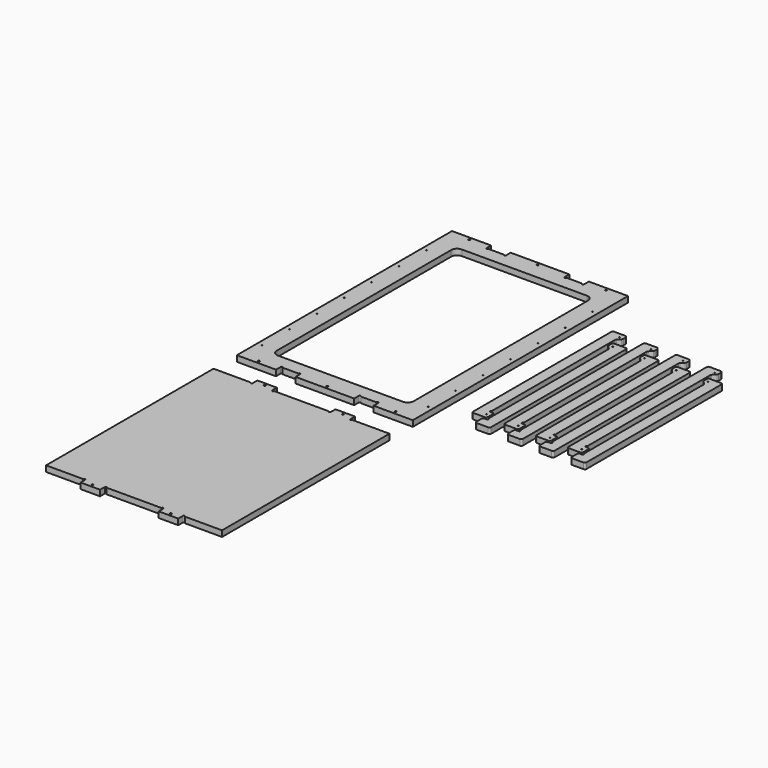
from build123d import *

# Parameters (mm, degrees)
F0_R     = 1.75
F0_R_2   = 1
F1_DEPTH = 12
F2_R     = 1.75
F3_DEPTH = 12


with BuildPart() as f1:
    # F0 (on Top) → F1 (new body)
    with BuildSketch(Plane.XY):
        with BuildLine():
            Line((0, 550), (0, 0))
            Line((0, 0), (80, 0))
            Line((80, 0), (80, 12))
            ThreePointArc((80, 12), (82, 14), (84, 12))
            Line((84, 12), (116, 12))
            ThreePointArc((116, 12), (118, 14), (120, 12))
            Line((120, 12), (120, 0))
            Line((120, 0), (239.85, 0))
            Line((239.85, 0), (239.85, 12))
            ThreePointArc((239.85, 12), (241.85, 14), (243.85, 12))
            Line((243.85, 12), (275.85, 12))
            ThreePointArc((275.85, 12), (277.85, 14), (279.85, 12))
            Line((279.85, 12), (279.85, 0))
            Line((279.85, 0), (359.85, 0))
            Line((359.85, 0), (359.85, 550))
            Line((359.85, 550), (279.85, 550))
            Line((279.85, 550), (279.85, 538))
            ThreePointArc((279.85, 538), (277.85, 536), (275.85, 538))
            Line((275.85, 538), (243.85, 538))
            ThreePointArc((243.85, 538), (241.85, 536), (239.85, 538))
            Line((239.85, 538), (239.85, 550))
            Line((239.85, 550), (120, 550))
            Line((120, 550), (120, 538))
            ThreePointArc((120, 538), (118, 536), (116, 538))
            Line((116, 538), (84, 538))
            ThreePointArc((84, 538), (82, 536), (80, 538))
            Line((80, 538), (80, 550))
            Line((80, 550), (0, 550))
        make_face()
        with Locations((40, 6)):
            Circle(F0_R, mode=Mode.SUBTRACT)
        with Locations((10, 52)):
            Circle(F0_R_2, mode=Mode.SUBTRACT)
        with Locations((10, 122)):
            Circle(F0_R_2, mode=Mode.SUBTRACT)
        with Locations((179.925, 6)):
            Circle(F0_R, mode=Mode.SUBTRACT)
        with Locations((319.85, 6)):
            Circle(F0_R, mode=Mode.SUBTRACT)
        with Locations((10, 192)):
            Circle(F0_R_2, mode=Mode.SUBTRACT)
        with Locations((10, 262)):
            Circle(F0_R_2, mode=Mode.SUBTRACT)
        with Locations((349.85, 52)):
            Circle(F0_R_2, mode=Mode.SUBTRACT)
        with Locations((349.85, 122)):
            Circle(F0_R_2, mode=Mode.SUBTRACT)
        with Locations((349.85, 192)):
            Circle(F0_R_2, mode=Mode.SUBTRACT)
        with Locations((349.85, 262)):
            Circle(F0_R_2, mode=Mode.SUBTRACT)
        with Locations((10, 332)):
            Circle(F0_R_2, mode=Mode.SUBTRACT)
        with Locations((10, 402)):
            Circle(F0_R_2, mode=Mode.SUBTRACT)
        with BuildLine():
            ThreePointArc((40, 498), (43.514719, 506.485281), (52, 510))
            Line((52, 510), (307.85, 510))
            ThreePointArc((307.85, 510), (316.335281, 506.485281), (319.85, 498))
            Line((319.85, 498), (319.85, 425.136964))
            Line((319.85, 425.136964), (319.85, 381.136964))
            Line((319.85, 381.136964), (319.85, 52))
            ThreePointArc((319.85, 52), (316.335281, 43.514719), (307.85, 40))
            Line((307.85, 40), (52, 40))
            ThreePointArc((52, 40), (43.514719, 43.514719), (40, 52))
            Line((40, 52), (40, 381.136964))
            Line((40, 381.136964), (40, 425.136964))
            Line((40, 425.136964), (40, 498))
        make_face(mode=Mode.SUBTRACT)
        with Locations((10, 472)):
            Circle(F0_R_2, mode=Mode.SUBTRACT)
        with Locations((40, 544)):
            Circle(F0_R, mode=Mode.SUBTRACT)
        with Locations((179.925, 544)):
            Circle(F0_R, mode=Mode.SUBTRACT)
        with Locations((319.85, 544)):
            Circle(F0_R, mode=Mode.SUBTRACT)
        with Locations((349.85, 332)):
            Circle(F0_R_2, mode=Mode.SUBTRACT)
        with Locations((349.85, 402)):
            Circle(F0_R_2, mode=Mode.SUBTRACT)
        with Locations((349.85, 472)):
            Circle(F0_R_2, mode=Mode.SUBTRACT)
        with BuildLine():
            Line((416.452497, 436.467258), (416.452497, 83.417258))
            ThreePointArc((416.452497, 83.417258), (417.448334, 81.013095), (419.852497, 80.017258))
            Line((419.852497, 80.017258), (443.052497, 80.017258))
            ThreePointArc((443.052497, 80.017258), (445.45666, 81.013095), (446.452497, 83.417258))
            Line((446.452497, 83.417258), (446.452497, 96.617258))
            ThreePointArc((446.452497, 96.617258), (445.45666, 99.021421), (443.052497, 100.017258))
            Line((443.052497, 100.017258), (438.452497, 100.017258))
            ThreePointArc((438.452497, 100.017258), (436.452497, 102.017258), (438.452497, 104.017258))
            Line((438.452497, 104.017258), (438.452497, 418.458932))
            ThreePointArc((438.452497, 418.458932), (438.711307, 419.760056), (439.448334, 420.863095))
            Line((439.448334, 420.863095), (445.45666, 426.871421))
            ThreePointArc((445.45666, 426.871421), (446.193688, 427.974461), (446.452497, 429.275584))
            Line((446.452497, 429.275584), (446.452497, 434.867258))
            ThreePointArc((446.452497, 434.867258), (444.988031, 438.402792), (441.452497, 439.867258))
            Line((441.452497, 439.867258), (419.852497, 439.867258))
            ThreePointArc((419.852497, 439.867258), (417.448334, 438.871421), (416.452497, 436.467258))
        make_face()
        with Locations((438.452497, 90.017258)):
            Circle(F0_R_2, mode=Mode.SUBTRACT)
        with Locations((438.452497, 429.867258)):
            Circle(F0_R_2, mode=Mode.SUBTRACT)
        with BuildLine():
            Line((469.052497, 407.867258), (445.852497, 407.867258))
            ThreePointArc((445.852497, 407.867258), (443.448334, 406.871421), (442.452497, 404.467258))
            Line((442.452497, 404.467258), (442.452497, 397.275584))
            ThreePointArc((442.452497, 397.275584), (442.711307, 395.974461), (443.448334, 394.871421))
            Line((443.448334, 394.871421), (449.45666, 388.863095))
            ThreePointArc((449.45666, 388.863095), (450.193688, 387.760056), (450.452497, 386.458932))
            Line((450.452497, 386.458932), (450.452497, 80.017258))
            ThreePointArc((450.452497, 80.017258), (452.452497, 78.017258), (450.452497, 76.017258))
            Line((450.452497, 76.017258), (445.852497, 76.017258))
            ThreePointArc((445.852497, 76.017258), (443.448334, 75.021421), (442.452497, 72.617258))
            Line((442.452497, 72.617258), (442.452497, 59.417258))
            ThreePointArc((442.452497, 59.417258), (443.448334, 57.013095), (445.852497, 56.017258))
            Line((445.852497, 56.017258), (469.052497, 56.017258))
            ThreePointArc((469.052497, 56.017258), (471.45666, 57.013095), (472.452497, 59.417258))
            Line((472.452497, 59.417258), (472.452497, 404.467258))
            ThreePointArc((472.452497, 404.467258), (471.45666, 406.871421), (469.052497, 407.867258))
        make_face()
        with Locations((450.452497, 397.867258)):
            Circle(F0_R_2, mode=Mode.SUBTRACT)
        with BuildLine():
            Line((511.452497, 83.417258), (511.452497, 96.617258))
            ThreePointArc((511.452497, 96.617258), (510.45666, 99.021421), (508.052497, 100.017258))
            Line((508.052497, 100.017258), (503.452497, 100.017258))
            ThreePointArc((503.452497, 100.017258), (501.452497, 102.017258), (503.452497, 104.017258))
            Line((503.452497, 104.017258), (503.452497, 418.458932))
            ThreePointArc((503.452497, 418.458932), (503.711307, 419.760056), (504.448334, 420.863095))
            Line((504.448334, 420.863095), (510.45666, 426.871421))
            ThreePointArc((510.45666, 426.871421), (511.193688, 427.974461), (511.452497, 429.275584))
            Line((511.452497, 429.275584), (511.452497, 434.867258))
            ThreePointArc((511.452497, 434.867258), (509.988031, 438.402792), (506.452497, 439.867258))
            Line((506.452497, 439.867258), (484.852497, 439.867258))
            ThreePointArc((484.852497, 439.867258), (482.448334, 438.871421), (481.452497, 436.467258))
            Line((481.452497, 436.467258), (481.452497, 83.417258))
            ThreePointArc((481.452497, 83.417258), (482.448334, 81.013095), (484.852497, 80.017258))
            Line((484.852497, 80.017258), (508.052497, 80.017258))
            ThreePointArc((508.052497, 80.017258), (510.45666, 81.013095), (511.452497, 83.417258))
        make_face()
        with Locations((503.452497, 90.017258)):
            Circle(F0_R_2, mode=Mode.SUBTRACT)
        with Locations((503.452497, 429.867258)):
            Circle(F0_R_2, mode=Mode.SUBTRACT)
        with BuildLine():
            ThreePointArc((515.452497, 80.017258), (517.452497, 78.017258), (515.452497, 76.017258))
            Line((515.452497, 76.017258), (510.852497, 76.017258))
            ThreePointArc((510.852497, 76.017258), (508.448334, 75.021421), (507.452497, 72.617258))
            Line((507.452497, 72.617258), (507.452497, 59.417258))
            ThreePointArc((507.452497, 59.417258), (508.448334, 57.013095), (510.852497, 56.017258))
            Line((510.852497, 56.017258), (534.052497, 56.017258))
            ThreePointArc((534.052497, 56.017258), (536.45666, 57.013095), (537.452497, 59.417258))
            Line((537.452497, 59.417258), (537.452497, 404.467258))
            ThreePointArc((537.452497, 404.467258), (536.45666, 406.871421), (534.052497, 407.867258))
            Line((534.052497, 407.867258), (510.852497, 407.867258))
            ThreePointArc((510.852497, 407.867258), (508.448334, 406.871421), (507.452497, 404.467258))
            Line((507.452497, 404.467258), (507.452497, 397.275584))
            ThreePointArc((507.452497, 397.275584), (507.711307, 395.974461), (508.448334, 394.871421))
            Line((508.448334, 394.871421), (514.45666, 388.863095))
            ThreePointArc((514.45666, 388.863095), (515.193688, 387.760056), (515.452497, 386.458932))
            Line((515.452497, 386.458932), (515.452497, 80.017258))
        make_face()
        with Locations((515.452497, 397.867258)):
            Circle(F0_R_2, mode=Mode.SUBTRACT)
        with BuildLine():
            Line((576.452497, 83.417258), (576.452497, 96.617258))
            ThreePointArc((576.452497, 96.617258), (575.45666, 99.021421), (573.052497, 100.017258))
            Line((573.052497, 100.017258), (568.452497, 100.017258))
            ThreePointArc((568.452497, 100.017258), (566.452497, 102.017258), (568.452497, 104.017258))
            Line((568.452497, 104.017258), (568.452497, 418.458932))
            ThreePointArc((568.452497, 418.458932), (568.711307, 419.760056), (569.448334, 420.863095))
            Line((569.448334, 420.863095), (575.45666, 426.871421))
            ThreePointArc((575.45666, 426.871421), (576.193688, 427.974461), (576.452497, 429.275584))
            Line((576.452497, 429.275584), (576.452497, 434.867258))
            ThreePointArc((576.452497, 434.867258), (574.988031, 438.402792), (571.452497, 439.867258))
            Line((571.452497, 439.867258), (549.852497, 439.867258))
            ThreePointArc((549.852497, 439.867258), (547.448334, 438.871421), (546.452497, 436.467258))
            Line((546.452497, 436.467258), (546.452497, 83.417258))
            ThreePointArc((546.452497, 83.417258), (547.448334, 81.013095), (549.852497, 80.017258))
            Line((549.852497, 80.017258), (573.052497, 80.017258))
            ThreePointArc((573.052497, 80.017258), (575.45666, 81.013095), (576.452497, 83.417258))
        make_face()
        with Locations((568.452497, 90.017258)):
            Circle(F0_R_2, mode=Mode.SUBTRACT)
        with Locations((568.452497, 429.867258)):
            Circle(F0_R_2, mode=Mode.SUBTRACT)
        with BuildLine():
            ThreePointArc((580.452497, 80.017258), (582.452497, 78.017258), (580.452497, 76.017258))
            Line((580.452497, 76.017258), (575.852497, 76.017258))
            ThreePointArc((575.852497, 76.017258), (573.448334, 75.021421), (572.452497, 72.617258))
            Line((572.452497, 72.617258), (572.452497, 59.417258))
            ThreePointArc((572.452497, 59.417258), (573.448334, 57.013095), (575.852497, 56.017258))
            Line((575.852497, 56.017258), (599.052497, 56.017258))
            ThreePointArc((599.052497, 56.017258), (601.45666, 57.013095), (602.452497, 59.417258))
            Line((602.452497, 59.417258), (602.452497, 404.467258))
            ThreePointArc((602.452497, 404.467258), (601.45666, 406.871421), (599.052497, 407.867258))
            Line((599.052497, 407.867258), (575.852497, 407.867258))
            ThreePointArc((575.852497, 407.867258), (573.448334, 406.871421), (572.452497, 404.467258))
            Line((572.452497, 404.467258), (572.452497, 397.275584))
            ThreePointArc((572.452497, 397.275584), (572.711307, 395.974461), (573.448334, 394.871421))
            Line((573.448334, 394.871421), (579.45666, 388.863095))
            ThreePointArc((579.45666, 388.863095), (580.193688, 387.760056), (580.452497, 386.458932))
            Line((580.452497, 386.458932), (580.452497, 80.017258))
        make_face()
        with Locations((580.452497, 397.867258)):
            Circle(F0_R_2, mode=Mode.SUBTRACT)
        with BuildLine():
            Line((641.452497, 83.417258), (641.452497, 96.617258))
            ThreePointArc((641.452497, 96.617258), (640.45666, 99.021421), (638.052497, 100.017258))
            Line((638.052497, 100.017258), (633.452497, 100.017258))
            ThreePointArc((633.452497, 100.017258), (631.452497, 102.017258), (633.452497, 104.017258))
            Line((633.452497, 104.017258), (633.452497, 418.458932))
            ThreePointArc((633.452497, 418.458932), (633.711307, 419.760056), (634.448334, 420.863095))
            Line((634.448334, 420.863095), (640.45666, 426.871421))
            ThreePointArc((640.45666, 426.871421), (641.193688, 427.974461), (641.452497, 429.275584))
            Line((641.452497, 429.275584), (641.452497, 434.867258))
            ThreePointArc((641.452497, 434.867258), (639.988031, 438.402792), (636.452497, 439.867258))
            Line((636.452497, 439.867258), (614.852497, 439.867258))
            ThreePointArc((614.852497, 439.867258), (612.448334, 438.871421), (611.452497, 436.467258))
            Line((611.452497, 436.467258), (611.452497, 83.417258))
            ThreePointArc((611.452497, 83.417258), (612.448334, 81.013095), (614.852497, 80.017258))
            Line((614.852497, 80.017258), (638.052497, 80.017258))
            ThreePointArc((638.052497, 80.017258), (640.45666, 81.013095), (641.452497, 83.417258))
        make_face()
        with Locations((633.452497, 90.017258)):
            Circle(F0_R_2, mode=Mode.SUBTRACT)
        with Locations((633.452497, 429.867258)):
            Circle(F0_R_2, mode=Mode.SUBTRACT)
        with BuildLine():
            ThreePointArc((645.452497, 80.017258), (647.452497, 78.017258), (645.452497, 76.017258))
            Line((645.452497, 76.017258), (640.852497, 76.017258))
            ThreePointArc((640.852497, 76.017258), (638.448334, 75.021421), (637.452497, 72.617258))
            Line((637.452497, 72.617258), (637.452497, 59.417258))
            ThreePointArc((637.452497, 59.417258), (638.448334, 57.013095), (640.852497, 56.017258))
            Line((640.852497, 56.017258), (664.052497, 56.017258))
            ThreePointArc((664.052497, 56.017258), (666.45666, 57.013095), (667.452497, 59.417258))
            Line((667.452497, 59.417258), (667.452497, 404.467258))
            ThreePointArc((667.452497, 404.467258), (666.45666, 406.871421), (664.052497, 407.867258))
            Line((664.052497, 407.867258), (640.852497, 407.867258))
            ThreePointArc((640.852497, 407.867258), (638.448334, 406.871421), (637.452497, 404.467258))
            Line((637.452497, 404.467258), (637.452497, 397.275584))
            ThreePointArc((637.452497, 397.275584), (637.711307, 395.974461), (638.448334, 394.871421))
            Line((638.448334, 394.871421), (644.45666, 388.863095))
            ThreePointArc((644.45666, 388.863095), (645.193688, 387.760056), (645.452497, 386.458932))
            Line((645.452497, 386.458932), (645.452497, 80.017258))
        make_face()
        with Locations((645.452497, 397.867258)):
            Circle(F0_R_2, mode=Mode.SUBTRACT)
    extrude(amount=F1_DEPTH)


with BuildPart() as f3:
    # F2 (on Top) → F3 (new body)
    with BuildSketch(Plane.XY):
        with BuildLine():
            Line((0, -59.700105), (0, -273.700105))
            Line((0, -273.700105), (0, -487.700105))
            Line((0, -487.700105), (76, -487.700105))
            ThreePointArc((76, -487.700105), (78, -485.700105), (80, -487.700105))
            Line((80, -487.700105), (80, -499.700105))
            Line((80, -499.700105), (120, -499.700105))
            Line((120, -499.700105), (120, -487.700105))
            ThreePointArc((120, -487.700105), (122, -485.700105), (124, -487.700105))
            Line((124, -487.700105), (179.925, -487.700105))
            Line((179.925, -487.700105), (235.85, -487.700105))
            ThreePointArc((235.85, -487.700105), (237.85, -485.700105), (239.85, -487.700105))
            Line((239.85, -487.700105), (239.85, -499.700105))
            Line((239.85, -499.700105), (279.85, -499.700105))
            Line((279.85, -499.700105), (279.85, -487.700105))
            ThreePointArc((279.85, -487.700105), (281.85, -485.700105), (283.85, -487.700105))
            Line((283.85, -487.700105), (359.85, -487.700105))
            Line((359.85, -487.700105), (359.85, -273.700105))
            Line((359.85, -273.700105), (359.85, -59.700105))
            Line((359.85, -59.700105), (283.85, -59.700105))
            ThreePointArc((283.85, -59.700105), (281.85, -61.700105), (279.85, -59.700105))
            Line((279.85, -59.700105), (279.85, -47.700105))
            Line((279.85, -47.700105), (239.85, -47.700105))
            Line((239.85, -47.700105), (239.85, -59.700105))
            ThreePointArc((239.85, -59.700105), (237.85, -61.700105), (235.85, -59.700105))
            Line((235.85, -59.700105), (179.925, -59.700105))
            Line((179.925, -59.700105), (124, -59.700105))
            ThreePointArc((124, -59.700105), (122, -61.700105), (120, -59.700105))
            Line((120, -59.700105), (120, -47.700105))
            Line((120, -47.700105), (80, -47.700105))
            Line((80, -47.700105), (80, -59.700105))
            ThreePointArc((80, -59.700105), (78, -61.700105), (76, -59.700105))
            Line((76, -59.700105), (0, -59.700105))
        make_face()
        with Locations((100, -493.700105)):
            Circle(F2_R, mode=Mode.SUBTRACT)
        with Locations((259.85, -493.700105)):
            Circle(F2_R, mode=Mode.SUBTRACT)
        with Locations((100, -53.700105)):
            Circle(F2_R, mode=Mode.SUBTRACT)
        with Locations((259.85, -53.700105)):
            Circle(F2_R, mode=Mode.SUBTRACT)
    extrude(amount=F3_DEPTH)


solid = Compound([f1.part, f3.part])
